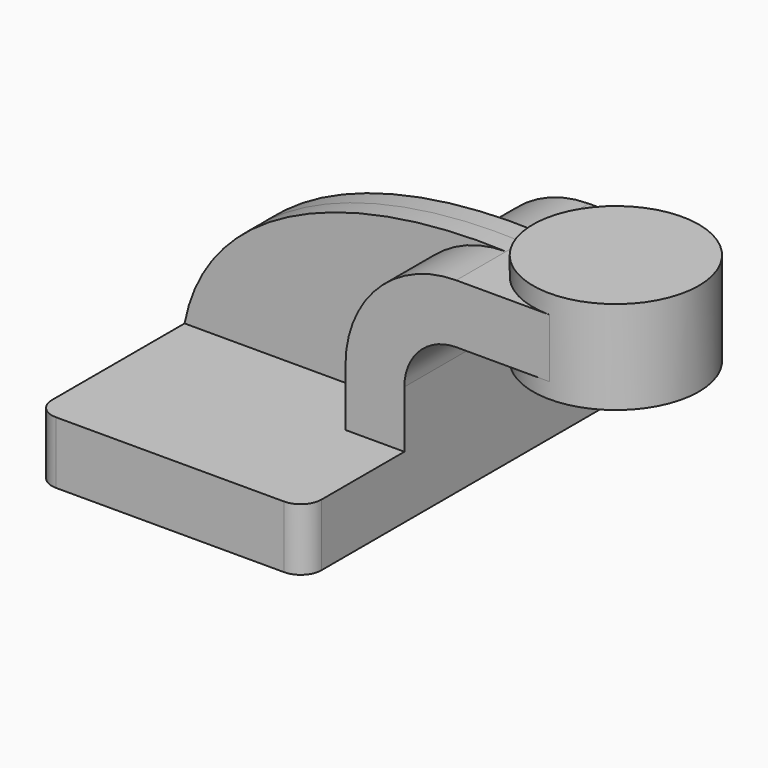
from build123d import *

# Parameters (mm, degrees)
F1_DEPTH = 63.5
F0_W     = 25.4
F0_H     = 18.034
F2_DEPTH = 25.4
F3_DEPTH = 6.35
F5_R     = 6.35


with BuildPart() as f1:
    # F0 (on Front) → F1 (new body, symmetric)
    with BuildSketch(Plane.XZ):
        Polygon((-41.275, 9.525), (-41.275, -9.525), (41.275, -9.525), (41.275, 9.525), (23.241, 9.525), align=None)
    extrude(amount=F1_DEPTH, both=True)

    # F0 (on Front) → F2 (join, symmetric)
    with BuildSketch(Plane.XZ):
        with BuildLine():
            Line((23.241, 9.525), (41.275, 9.525))
            Line((41.275, 9.525), (41.275, 27.0002))
            ThreePointArc((41.275, 27.0002), (45.9246798487, 38.2255201513), (57.15, 42.8752))
            Line((57.15, 42.8752), (60.325, 42.8752))
            Line((60.325, 42.8752), (60.325, 60.9092))
            Line((60.325, 60.9092), (57.15, 60.9092))
            ThreePointArc((57.15, 60.9092), (33.1727161567, 50.9774838433), (23.241, 27.0002))
            Line((23.241, 27.0002), (23.241, 9.525))
        make_face()
        with Locations((73.025, 51.8922)):
            Rectangle(F0_W, F0_H)
    extrude(amount=F2_DEPTH, both=True)

    # F0 (on Front) → F3 (join, symmetric)
    with BuildSketch(Plane.XZ):
        with BuildLine():
            add(Edge.make_bspline(
                [(-41.275, 9.525), (-34.2406501154, 46.4476686137), (10.1438477317, 62.8272760307), (57.15, 60.9092)],
                knots=[0, 0, 0, 0, 111.0307013156, 111.0307013156, 111.0307013156, 111.0307013156], degree=3))
            Line((-41.275, 9.525), (23.241, 9.525))
            Line((23.241, 9.525), (23.241, 27.0002))
            ThreePointArc((23.241, 27.0002), (33.1727161567, 50.9774838433), (57.15, 60.9092))
        make_face()
    extrude(amount=F3_DEPTH, both=True)

    # F0 (on Front) → F4 (revolve)
    with BuildSketch(Plane.XZ):
        Polygon((85.725, 66.675), (85.725, 60.9092), (85.725, 42.8752), (85.725, 38.1), (111.125, 38.1), (111.125, 66.675), align=None)
        Polygon((85.725, 66.675), (85.725, 60.9092), (85.725, 42.8752), (85.725, 38.1), (111.125, 38.1), (111.125, 66.675), align=None)
    revolve(axis=Axis((85.725, 0, 52.3875), (0, 0, -1)))

    # F5
    f5_edges = [f1.edges().sort_by_distance(p)[0] for p in [
        (-41.275, -63.5, 0),
        (41.275, -63.5, 0),
        (-41.275, 63.5, 0),
        (41.275, 63.5, 0),
    ]]
    fillet(f5_edges, radius=F5_R)


solid = f1.part
